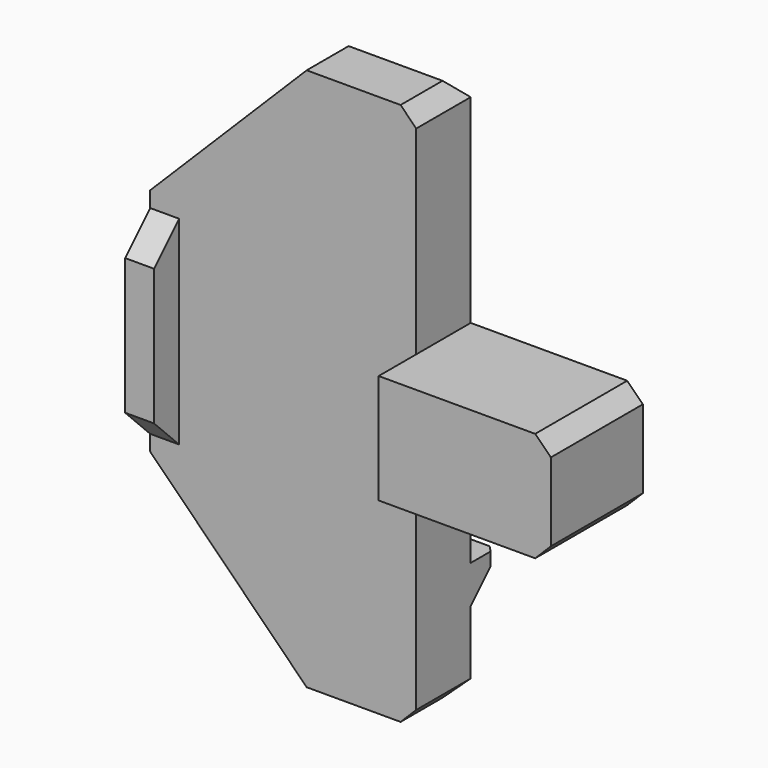
from build123d import *

# Parameters (mm, degrees)
BOX054_W                 = 1.85
BOX054_H                 = 3
BOX054_DEPTH             = 12.7
CHAMFER004013007005_SIZE = 2
BOX053_W                 = 17
BOX053_H                 = 4.35
BOX053_DEPTH             = 34.7
CHAMFER004013007003_SIZE = 10
CHAMFER004013007004_SIZE = 1
BOX052_W                 = 11
BOX052_H                 = 7.35
BOX052_DEPTH             = 7
CHAMFER004013007002_SIZE = 1
BOX055_W                 = 10
BOX055_H                 = 3
BOX055_DEPTH             = 3
CHAMFER004013007006_SIZE = 2
CHAMFER004013007007_SIZE = 0.4


with BuildPart() as chamfer004013007005:
    # Box054 → Box054 (new body)
    with BuildSketch(Plane(origin=(-12, 11.65, 11), x_dir=(1, 0, 0), z_dir=(0, 0, 1))):
        with Locations((0.925, 1.5)):
            Rectangle(BOX054_W, BOX054_H)
    extrude(amount=BOX054_DEPTH)

    # Chamfer004013007005
    chamfer004013007005_edges = [chamfer004013007005.edges().sort_by_distance(p)[0] for p in [
        (-11.075, 11.65, 11),
        (-11.075, 11.65, 23.7),
    ]]
    chamfer(chamfer004013007005_edges, length=CHAMFER004013007005_SIZE)


with BuildPart() as chamfer004013007004:
    # Box053 → Box053 (new body)
    with BuildSketch(Plane(origin=(-12, 13.65, 0), x_dir=(1, 0, 0), z_dir=(0, 0, 1))):
        with Locations((8.5, 2.175)):
            Rectangle(BOX053_W, BOX053_H)
    extrude(amount=BOX053_DEPTH)

    # Chamfer004013007003
    chamfer004013007003_edges = [chamfer004013007004.edges().sort_by_distance(p)[0] for p in [
        (-12, 15.825, 34.7),
        (-12, 15.825, 0),
    ]]
    chamfer(chamfer004013007003_edges, length=CHAMFER004013007003_SIZE)

    # Chamfer004013007004
    chamfer004013007004_edges = [chamfer004013007004.edges().sort_by_distance(p)[0] for p in [
        (-7, 18, 5),
        (-7, 18, 29.7),
        (1.5, 18, 0),
        (1.5, 18, 34.7),
        (5, 15.825, 0),
        (5, 15.825, 34.7),
    ]]
    chamfer(chamfer004013007004_edges, length=CHAMFER004013007004_SIZE)


with BuildPart() as chamfer004013007002:
    # Box052 → Box052 (new body)
    with BuildSketch(Plane(origin=(5, 10.65, 14), x_dir=(1, 0, 0), z_dir=(0, 0, 1))):
        with Locations((5.5, 3.675)):
            Rectangle(BOX052_W, BOX052_H)
    extrude(amount=BOX052_DEPTH)

    # Chamfer004013007002
    chamfer004013007002_edges = [chamfer004013007002.edges().sort_by_distance(p)[0] for p in [
        (16, 14.325, 21),
        (16, 14.325, 14),
    ]]
    chamfer(chamfer004013007002_edges, length=CHAMFER004013007002_SIZE)


with BuildPart() as belt_side_mount:
    # Box055 → Box055 (new body)
    with BuildSketch(Plane(origin=(-5, 17, 4.5), x_dir=(1, 0, 0), z_dir=(0, 0, 1))):
        with Locations((5, 1.5)):
            Rectangle(BOX055_W, BOX055_H)
    extrude(amount=BOX055_DEPTH)

    # Chamfer004013007006
    chamfer004013007006_edges = [belt_side_mount.edges().sort_by_distance(p)[0] for p in [
        (0, 20, 4.5),
    ]]
    chamfer(chamfer004013007006_edges, length=CHAMFER004013007006_SIZE)

    # Chamfer004013007007
    chamfer004013007007_edges = [belt_side_mount.edges().sort_by_distance(p)[0] for p in [
        (-5, 20, 7),
        (-5, 19, 5.5),
        (5, 20, 7),
        (5, 19, 5.5),
    ]]
    chamfer(chamfer004013007007_edges, length=CHAMFER004013007007_SIZE)

    # Fusion001007005021: union Chamfer004013007005, Chamfer004013007004, Chamfer004013007002
    add(chamfer004013007005.part)
    add(chamfer004013007004.part)
    add(chamfer004013007002.part)


solid = belt_side_mount.part
